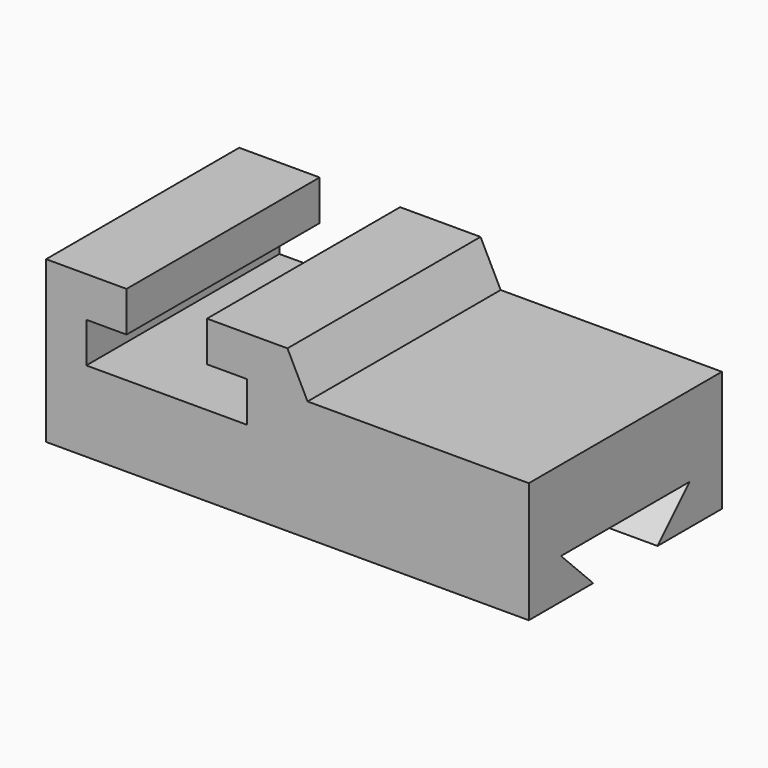
from build123d import *

# Parameters (mm, degrees)
F1_DEPTH = 76.2
F3_DEPTH = 152.4


with BuildPart() as f1:
    # F0 (on Front) → F1 (new body)
    with BuildSketch(Plane.XZ):
        Polygon((0, 50.8), (0, 0), (152.4, 0), (152.4, 38.1), (82.55, 38.1), (76.2, 50.8), (50.8, 50.8), (50.8, 38.1), (63.5, 38.1), (63.5, 25.4), (12.7, 25.4), (12.7, 38.1), (25.4, 38.1), (25.4, 50.8), align=None)
    extrude(amount=F1_DEPTH)

    # F2 (on face) → F3 (cut)
    with BuildSketch(Plane.YZ.offset(152.4)):
        Polygon((-25.4, 0), (-12.7, 12.7), (-63.5, 12.7), (-50.8, 0), align=None)
    extrude(amount=-F3_DEPTH, mode=Mode.SUBTRACT)


solid = f1.part
